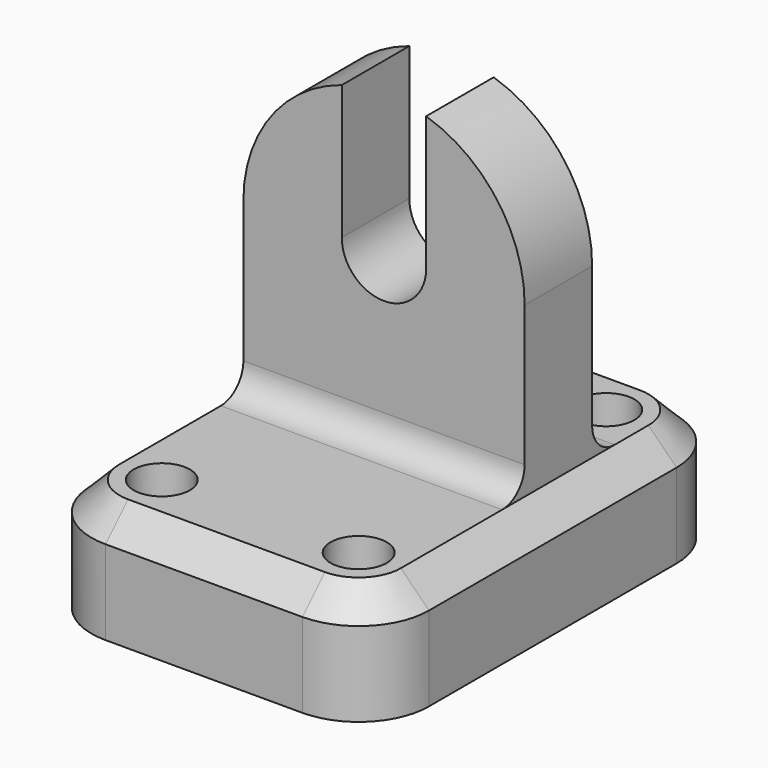
from build123d import *

# Parameters (mm, degrees)
F0_R     = 6.35
F1_DEPTH = 25.4
F2_SIZE  = 6.35
F3_W     = 63.5
F3_H     = 19.05
F4_DEPTH = 95.25
F6_DEPTH = 25.4
F7_R     = 6.35


with BuildPart() as f1:
    # F0 (on Top) → F1 (new body)
    with BuildSketch(Plane.XY):
        with BuildLine():
            Line((-13.251837, 83.219877), (-57.701837, 83.219877))
            ThreePointArc((-57.701837, 83.219877), (-68.927157, 78.570197), (-73.576837, 67.344877))
            Line((-73.576837, 67.344877), (-73.576837, 51.469877))
            Line((-73.576837, 51.469877), (2.623163, 51.469877))
            Line((2.623163, 51.469877), (2.623163, 67.344877))
            ThreePointArc((2.623163, 67.344877), (-2.026517, 78.570197), (-13.251837, 83.219877))
        make_face()
        with Locations((-57.701837, 67.344877)):
            Circle(F0_R, mode=Mode.SUBTRACT)
        with Locations((-13.251837, 67.344877)):
            Circle(F0_R, mode=Mode.SUBTRACT)
        Polygon((2.623163, 51.469877), (-73.576837, 51.469877), (-73.576837, 50.740071), (-73.576837, 32.419877), (2.623163, 32.419877), align=None)
        with BuildLine():
            Line((2.623163, -2.505123), (2.623163, 32.419877))
            Line((2.623163, 32.419877), (-73.576837, 32.419877))
            Line((-73.576837, 32.419877), (-73.576837, -2.505123))
            ThreePointArc((-73.576837, -2.505123), (-68.927157, -13.730443), (-57.701837, -18.380123))
            Line((-57.701837, -18.380123), (-13.251837, -18.380123))
            ThreePointArc((-13.251837, -18.380123), (-2.026517, -13.730443), (2.623163, -2.505123))
        make_face()
        with Locations((-57.701837, -2.505123)):
            Circle(F0_R, mode=Mode.SUBTRACT)
        with Locations((-13.251837, -2.505123)):
            Circle(F0_R, mode=Mode.SUBTRACT)
    extrude(amount=F1_DEPTH)

    # F2
    f2_edges = [f1.edges().sort_by_distance(p)[0] for p in [
        (-35.476837, 83.219877, 25.4),
    ]]
    chamfer(f2_edges, length=F2_SIZE)

    # F3 (on face) → F4 (join)
    with BuildSketch(Plane.XY.offset(25.4)):
        with Locations((-35.476837, 41.944877)):
            Rectangle(F3_W, F3_H)
    extrude(amount=F4_DEPTH)

    # F5 (on face) → F6 (cut)
    with BuildSketch(Plane.XZ.offset(-32.419877)):
        with BuildLine():
            ThreePointArc((-45.001837, 93.78757), (-35.476837, 95.25), (-25.951837, 93.78757))
            ThreePointArc((-25.951837, 93.78757), (-9.879169, 82.283553), (-3.726837, 63.5))
            Line((-3.726837, 63.5), (-3.726837, 120.65))
            Line((-3.726837, 120.65), (-67.226837, 120.65))
            Line((-67.226837, 120.65), (-67.226837, 63.5))
            ThreePointArc((-67.226837, 63.5), (-61.074506, 82.283553), (-45.001837, 93.78757))
        make_face()
        with BuildLine():
            ThreePointArc((-45.001837, 63.5), (-35.476837, 73.025), (-25.951837, 63.5))
            Line((-25.951837, 63.5), (-25.951837, 93.78757))
            ThreePointArc((-25.951837, 93.78757), (-35.476837, 95.25), (-45.001837, 93.78757))
            Line((-45.001837, 93.78757), (-45.001837, 63.5))
        make_face()
        with BuildLine():
            ThreePointArc((-45.001837, 63.5), (-35.476837, 53.975), (-25.951837, 63.5))
            ThreePointArc((-25.951837, 63.5), (-35.476837, 73.025), (-45.001837, 63.5))
        make_face()
    extrude(amount=-F6_DEPTH, mode=Mode.SUBTRACT)

    # F7
    f7_edges = [f1.edges().sort_by_distance(p)[0] for p in [
        (-35.476837, 51.469877, 25.4),
        (-35.476837, 32.419877, 25.4),
    ]]
    fillet(f7_edges, radius=F7_R)


solid = f1.part
